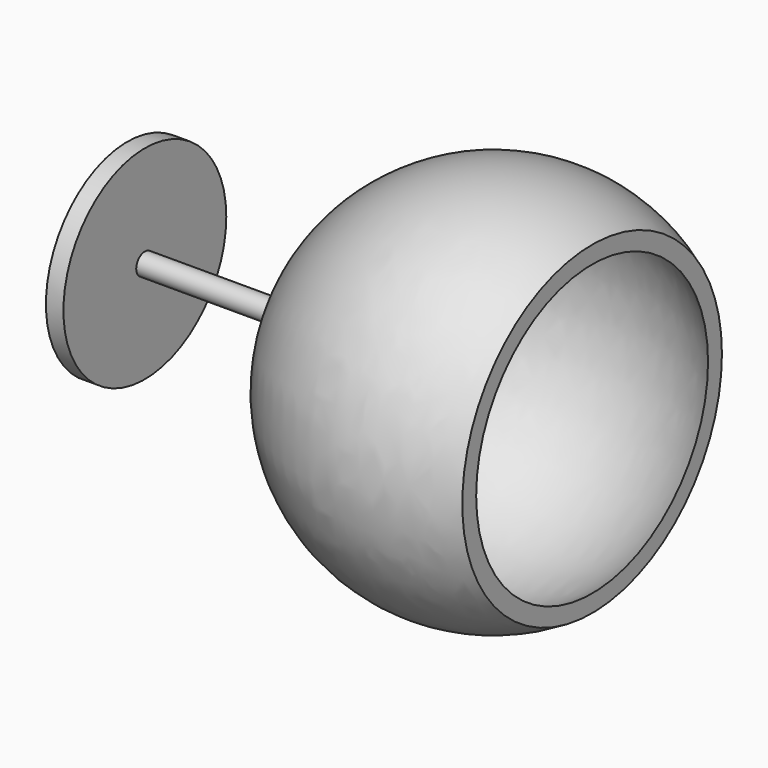
from build123d import *


with BuildPart() as part:
    # Sketch → Revolution (revolve)
    with BuildSketch(Plane.XY):
        with BuildLine():
            ThreePointArc((16.863913, 27.78234), (-15.127273, 28.764833), (-32.447313, 1.849828))
            Line((-59.707644, 1.849828), (-32.447313, 1.849828))
            Line((-59.707644, 1.849828), (-59.707644, 17.425077))
            Line((-59.707644, 17.425077), (-62.707644, 17.425077))
            Line((-62.707644, 17.425077), (-62.707644, 0))
            Line((-30, 0), (-62.707644, 0))
            ThreePointArc((16.863913, 24.811458), (-14.03714, 26.513368), (-30, 0))
            Line((16.863913, 24.811458), (16.863913, 27.78234))
        make_face()
    revolve(axis=Axis((0, 0, 0), (1, 0, 0)))


solid = part.part
